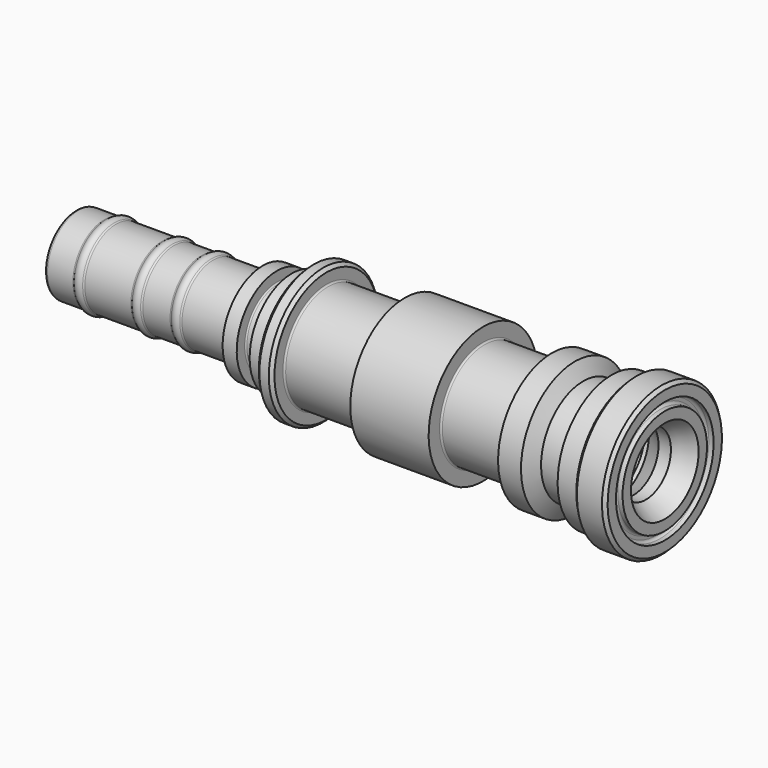
from build123d import *

# Parameters (mm, degrees)
F2_SIZE = 1
F3_R    = 0.8
F4_R    = 1
F5_R    = 0.4
F6_R    = 0.5
F7_R    = 0.8


with BuildPart() as f1:
    # F0 (on Front) → F1 (revolve)
    with BuildSketch(Plane.XZ):
        with BuildLine():
            Line((0, 19.465029), (0, 23.8))
            Line((0, 23.8), (-10, 23.8))
            Line((-10, 23.8), (-10, 21.5))
            Line((-10, 21.5), (-17, 21.5))
            Line((-17, 21.5), (-17, 16.85))
            Line((-17, 16.85), (-26, 16.85))
            Line((-26, 16.85), (-28.684679, 21.5))
            Line((-28.684679, 21.5), (-36, 21.5))
            Line((-36, 21.5), (-36, 16.85))
            Line((-36, 16.85), (-58, 16.85))
            Line((-58, 16.85), (-58, 21.7))
            Line((-58, 21.7), (-83, 21.7))
            Line((-83, 21.7), (-83, 16.85))
            Line((-83, 16.85), (-108, 16.85))
            Line((-108, 16.85), (-108, 21.7))
            Line((-108, 21.7), (-113, 21.7))
            Line((-113, 21.7), (-113, 16.85))
            Line((-113, 16.85), (-119, 16.85))
            Line((-119, 16.85), (-119, 12.45))
            Line((-119, 12.45), (-123.8, 12.45))
            Line((-123.8, 12.45), (-123.8, 16))
            Line((-123.8, 16), (-128.3, 16))
            Line((-128.3, 16), (-129.25122, 12.45))
            Line((-129.25122, 12.45), (-144.438751, 12.45))
            ThreePointArc((-144.438751, 12.45), (-146, 13.2), (-147.561249, 12.45))
            Line((-147.561249, 12.45), (-156.938751, 12.45))
            ThreePointArc((-156.938751, 12.45), (-158.5, 13.2), (-160.061249, 12.45))
            Line((-160.061249, 12.45), (-175.438751, 12.45))
            ThreePointArc((-175.438751, 12.45), (-177, 13.2), (-178.561249, 12.45))
            Line((-178.561249, 12.45), (-188, 12.45))
            Line((-188, 12.45), (-188, 10))
            Line((-188, 10), (-22.629165, 10))
            Line((-22.629165, 10), (-17, 13.25))
            Line((-17, 13.25), (-15.629165, 13.25))
            Line((-15.629165, 13.25), (-10, 10))
            Line((-10, 10), (-6.039038, 10))
            Line((-6.039038, 10), (0, 13.48664))
            Line((0, 13.48664), (0, 16.845787))
            Line((0, 16.845787), (-2.3, 16.845787))
            Line((-2.3, 16.845787), (-2.3, 19.465029))
            Line((-2.3, 19.465029), (0, 19.465029))
        make_face()
    revolve(axis=Axis((-118.141681, 0, 0), (-1, 0, 0)))

    # F2
    f2_edges = [f1.edges().sort_by_distance(p)[0] for p in [
        (-108, 0, -21.7),
        (-113, 0, -21.7),
        (0, 0, -23.8),
        (-10, 0, -23.8),
    ]]
    chamfer(f2_edges, length=F2_SIZE)

    # F3
    f3_edges = [f1.edges().sort_by_distance(p)[0] for p in [
        (-175.438751, 0, -12.45),
        (-156.938751, 0, -12.45),
        (-144.438751, 0, -12.45),
        (-147.561249, 0, -12.45),
        (-160.061249, 0, -12.45),
        (-178.561249, 0, -12.45),
    ]]
    fillet(f3_edges, radius=F3_R)

    # F4
    f4_edges = [f1.edges().sort_by_distance(p)[0] for p in [
        (-188, 0, -12.45),
    ]]
    fillet(f4_edges, radius=F4_R)

    # F5
    f5_edges = [f1.edges().sort_by_distance(p)[0] for p in [
        (-119, 0, -12.45),
        (-123.8, 0, -12.45),
    ]]
    fillet(f5_edges, radius=F5_R)

    # F6
    f6_edges = [f1.edges().sort_by_distance(p)[0] for p in [
        (-83, 0, -16.85),
        (-36, 0, -16.85),
        (-58, 0, -16.85),
        (-108, 0, -16.85),
    ]]
    fillet(f6_edges, radius=F6_R)

    # F7
    f7_edges = [f1.edges().sort_by_distance(p)[0] for p in [
        (-2.3, 0, -19.465029),
        (-2.3, 0, -16.845787),
    ]]
    fillet(f7_edges, radius=F7_R)


solid = f1.part
